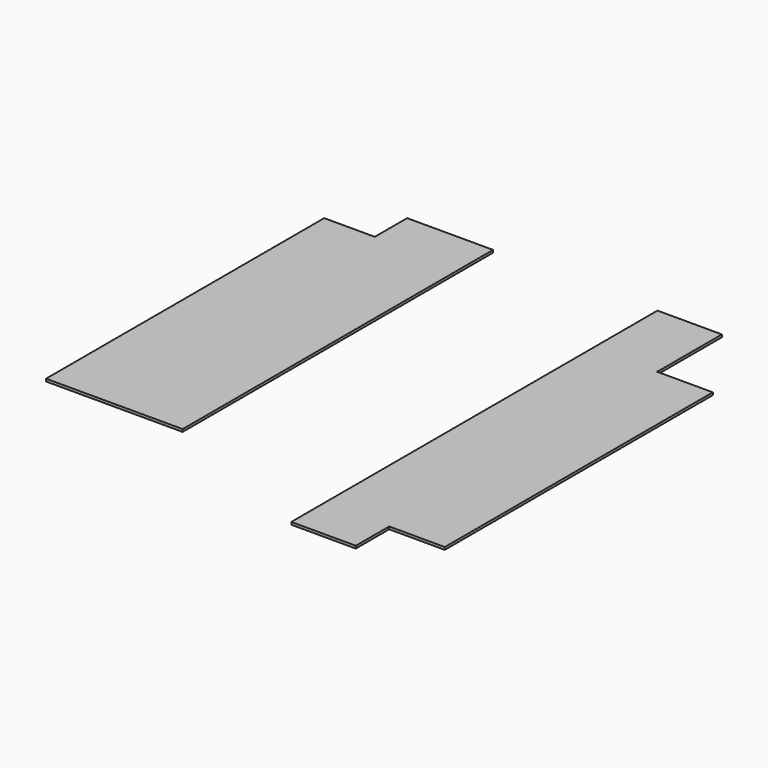
from build123d import *

# Parameters (mm, degrees)
F0_W     = 1371.6
F0_H     = 1219.2
F0_W_2   = 863.6
F0_H_2   = 241.3
F1_DEPTH = 25.4
F3_DEPTH = 25.4


with BuildPart() as f1:
    # F0 (on Top) → F1 (new body)
    with BuildSketch(Plane.XY):
        with Locations((685.8, 609.6)):
            Rectangle(F0_W, F0_H)
        with Locations((685.8, 1828.8)):
            Rectangle(F0_W, F0_H)
        Polygon((0, 3492.5), (0, 2438.4), (1371.6, 2438.4), (1371.6, 3657.6), (508, 3657.6), (508, 3492.5), align=None)
        with Locations((939.8, 3778.25)):
            Rectangle(F0_W_2, F0_H_2)
    extrude(amount=F1_DEPTH)


with BuildPart() as f3:
    # F2 (on Top) → F3 (new body)
    with BuildSketch(Plane.XY):
        Polygon((3670.226026, 3898.9), (3022.526026, 3898.9), (3022.526026, -698.5), (3670.226026, -698.5), (3670.226026, -279.4), (4229.026026, -279.4), (4229.026026, 3086.1), (3670.226026, 3086.1), align=None)
    extrude(amount=F3_DEPTH)


solid = Compound([f1.part, f3.part])
